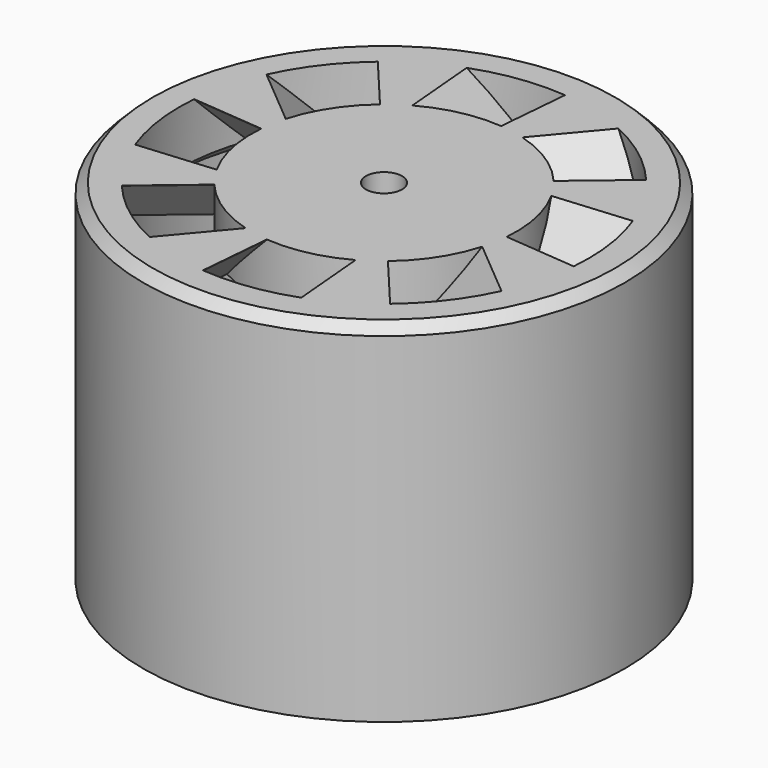
from build123d import *

# Parameters (mm, degrees)
SKETCH011_R           = 10
PAD007_DEPTH          = 14.5
CHAMFER008_SIZE       = 0.4
SKETCH012_R           = 0.75
POCKET_DEPTH          = 3.501
SKETCH013_R           = 9
POCKET001_DEPTH       = 12.25
POCKET002_DEPTH       = 78.56986
POLARPATTERN002_COUNT = 8
CHAMFER004014008_SIZE = 2.24
CHAMFER004014009_SIZE = 0.5
CHAMFER004014010_SIZE = 0.45


with BuildPart() as part:
    # Sketch011 (on DatumPlane) → Pad007 (new body)
    with BuildSketch(Plane.XY):
        Circle(SKETCH011_R)
    extrude(amount=PAD007_DEPTH)

    # Chamfer008
    chamfer008_edges = [part.edges().sort_by_distance(p)[0] for p in [
        (-10, 0, 14.5),
    ]]
    chamfer(chamfer008_edges, length=CHAMFER008_SIZE)

    # Sketch012 (on DatumPlane) → Pocket (cut, through all)
    with BuildSketch(Plane.XY.offset(11)):
        Circle(SKETCH012_R)
    extrude(amount=POCKET_DEPTH, mode=Mode.SUBTRACT)

    # Sketch013 (on DatumPlane) → Pocket001 (cut)
    with BuildSketch(Plane.XY):
        Circle(SKETCH013_R)
    extrude(amount=POCKET001_DEPTH, mode=Mode.SUBTRACT)

    # Sketch019 (on DatumPlane) → Pocket002 (cut, through all)
    with BuildSketch(Plane.XY.offset(15)):
        with BuildLine():
            ThreePointArc((8.467655, -0.740824), (8.5, 0), (8.467655, 0.740824))
            Line((5.479071, 0.479357), (8.467655, 0.740824))
            ThreePointArc((5.479071, -0.479357), (5.5, 0), (5.479071, 0.479357))
            Line((5.479071, -0.479357), (8.467655, -0.740824))
        make_face()
    pocket002 = extrude(amount=-POCKET002_DEPTH, mode=Mode.SUBTRACT)

    # PolarPattern002: Pocket002 ×8 about axis
    polarpattern002_axis = Axis((0, 0, 15), (0, 0, 1))
    for i in range(1, POLARPATTERN002_COUNT):
        add(pocket002.rotate(polarpattern002_axis, i * 360 / POLARPATTERN002_COUNT), mode=Mode.SUBTRACT)

    # Chamfer004014008
    chamfer004014008_edges = [part.edges().sort_by_distance(p)[0] for p in [
        (-5.362311, -4.499513, 12.25),
        (-6.973363, 0.61009, 12.25),
        (-4.499513, 5.362311, 12.25),
        (0.61009, 6.973363, 12.25),
        (5.362311, 4.499513, 12.25),
        (6.973363, -0.61009, 12.25),
        (4.499513, -5.362311, 12.25),
        (-0.61009, -6.973363, 12.25),
        (-6.973363, -0.61009, 14.5),
        (-5.362311, 4.499513, 14.5),
        (-0.61009, 6.973363, 14.5),
        (4.499513, 5.362311, 14.5),
        (6.973363, 0.61009, 14.5),
        (5.362311, -4.499513, 14.5),
        (0.61009, -6.973363, 14.5),
        (-4.499513, -5.362311, 14.5),
    ]]
    chamfer(chamfer004014008_edges, length=CHAMFER004014008_SIZE)

    # Chamfer004014009
    chamfer004014009_edges = [part.edges().sort_by_distance(p)[0] for p in [
        (-9, 0, 0),
    ]]
    chamfer(chamfer004014009_edges, length=CHAMFER004014009_SIZE)

    # Chamfer004014010
    chamfer004014010_edges = [part.edges().sort_by_distance(p)[0] for p in [
        (-9, 0, 12.25),
    ]]
    chamfer(chamfer004014010_edges, length=CHAMFER004014010_SIZE)


with BuildPart() as part_1:
    # Body002002003003 placement: moved
    add(part.part.moved(Location((0, 0, 2))))


solid = part_1.part
